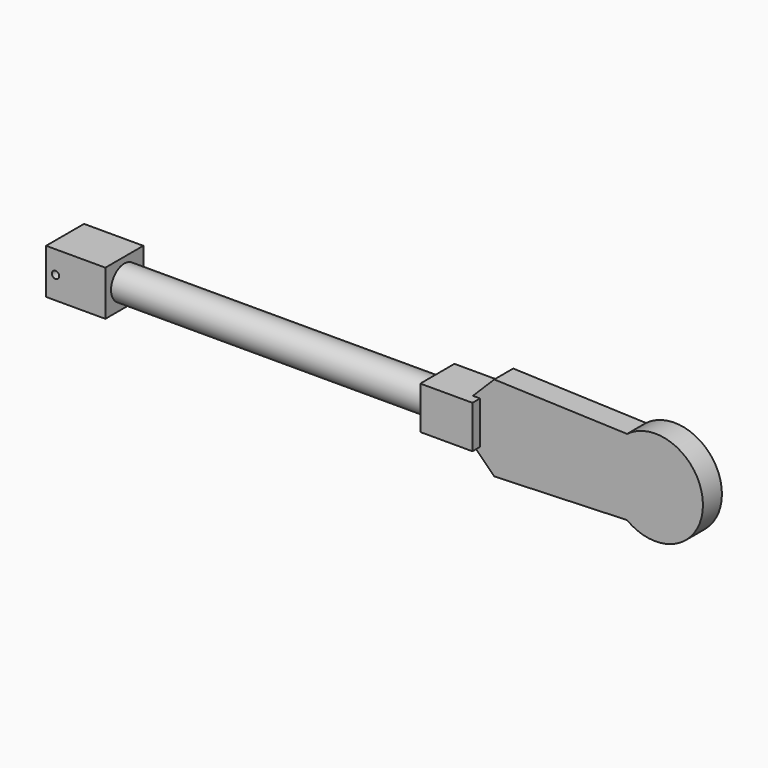
from build123d import *

# Parameters (mm, degrees)
F0_W     = 132
F0_H     = 7
F2_DEPTH = 9
F3_DEPTH = 5
F0_R     = 1.55
F4_DEPTH = 10


with BuildPart() as f1:
    # F0 (on Front) → F1 (revolve)
    with BuildSketch(Plane.XZ):
        with Locations((66, -3.5)):
            Rectangle(F0_W, F0_H)
    revolve(axis=Axis((66, 0, 0), (1, 0, 0)))

    # F0 (on Front) → F2 (join, symmetric)
    with BuildSketch(Plane.XZ):
        Polygon((132, 9), (132, 0), (132, -7), (132, -9), (151, -9), (154, -9), (154, 9), (151, 9), align=None)
    extrude(amount=F2_DEPTH, both=True)

    # F0 (on Front) → F3 (join, symmetric)
    with BuildSketch(Plane.XZ):
        with BuildLine():
            Line((160, 18), (151, 9))
            Line((151, 9), (154, 9))
            Line((154, 9), (154, -9))
            Line((154, -9), (151, -9))
            Line((151, -9), (160, -18))
            Line((160, -18), (216, -16))
            ThreePointArc((216, -16), (248, 0), (216, 16))
            Line((216, 16), (160, 18))
        make_face()
    extrude(amount=F3_DEPTH, both=True)

    # F0 (on Front) → F4 (join, symmetric)
    with BuildSketch(Plane.XZ):
        Polygon((0, -7), (0, 0), (0, 9.5), (-25, 9.5), (-25, -9.5), (0, -9.5), align=None)
        with Locations((-21, 0)):
            Circle(F0_R, mode=Mode.SUBTRACT)
    extrude(amount=F4_DEPTH, both=True)


solid = f1.part
